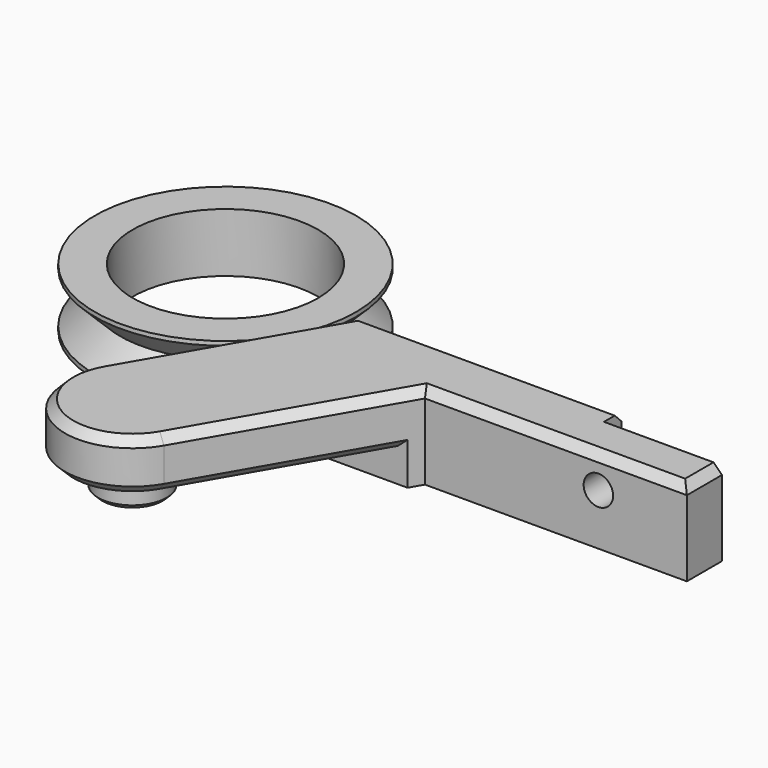
from build123d import *

# Parameters (mm, degrees)
PAD_DEPTH       = 10
SKETCH002_R     = 1.75
POCKET_DEPTH    = 34.301
POCKET001_DEPTH = 4
SKETCH003_R     = 5.55
PAD001_DEPTH    = 0.5
SKETCH005_R     = 4.075
PAD002_DEPTH    = 3.5
CHAMFER_SIZE    = 0.5
CHAMFER001_SIZE = 1
CHAMFER002_SIZE = 1


with BuildPart() as bracket_left:
    # Sketch001 → Pad (new body)
    with BuildSketch(Plane.XY):
        with BuildLine():
            Line((23.946708, 0), (11.071797, 22.3))
            ThreePointArc((24.928203, 30.3), (14, 33.228203), (11.071797, 22.3))
            Line((24.928203, 30.3), (37.918584, 7.8))
            Line((37.918584, 7.8), (69, 7.8))
            Line((69, 7.8), (69, 2.6))
            Line((69, 2.6), (55, 2.6))
            Line((55, 2.6), (55, 0))
            Line((23.946708, 0), (55, 0))
        make_face()
    extrude(amount=PAD_DEPTH)

    # Sketch002 → Pocket (cut, through all)
    with BuildSketch(Plane.XZ):
        with Locations((58.5, 6.1)):
            Circle(SKETCH002_R)
    extrude(amount=-POCKET_DEPTH, mode=Mode.SUBTRACT)

    # Sketch → Pocket001 (cut)
    with BuildSketch(Plane.XY):
        with BuildLine():
            ThreePointArc((33.868529, 30.821038), (13.478962, 42.168529), (2.131471, 21.778962))
            Line((5.686801, 9.3), (2.131471, 21.778962))
            Line((40, 9.3), (5.686801, 9.3))
            Line((33.868529, 30.821038), (40, 9.3))
        make_face()
    extrude(amount=POCKET001_DEPTH, mode=Mode.SUBTRACT)

    # Sketch003 (on Face4 of Pocket001) → Pad001 (join)
    with BuildSketch(Plane(origin=(0, 0, 4), x_dir=(1, 0, 0), z_dir=(0, 0, -1))):
        with Locations((18, -26.3)):
            Circle(SKETCH003_R)
    extrude(amount=PAD001_DEPTH)

    # Sketch005 (on Face4 of Pocket001) → Pad002 (join)
    with BuildSketch(Plane(origin=(0, 0, 4), x_dir=(1, 0, 0), z_dir=(0, 0, -1))):
        with Locations((18, -26.3)):
            Circle(SKETCH005_R)
    extrude(amount=PAD002_DEPTH)

    # Chamfer
    chamfer_edges = [bracket_left.edges().sort_by_distance(p)[0] for p in [
        (13.925, 26.3, 0.5),
    ]]
    chamfer(chamfer_edges, length=CHAMFER_SIZE)

    # Chamfer001
    chamfer001_edges = [bracket_left.edges().sort_by_distance(p)[0] for p in [
        (30.990381, 19.8, 4),
        (14.824574, 15.8, 4),
        (14, 33.228203, 4),
    ]]
    chamfer(chamfer001_edges, length=CHAMFER001_SIZE)

    # Chamfer002
    chamfer002_edges = [bracket_left.edges().sort_by_distance(p)[0] for p in [
        (53.459292, 7.8, 10),
        (31.423394, 19.05, 10),
        (14, 33.228203, 10),
        (17.509252, 11.15, 10),
        (39.473354, 0, 10),
        (69, 5.2, 10),
    ]]
    chamfer(chamfer002_edges, length=CHAMFER002_SIZE)


with BuildPart() as bracket_right:
    # Part__Mirroring: instance of Bracket Left
    add(bracket_left.part.mirror(Plane(origin=(0, 0, 0), x_dir=(1, 0, 0), z_dir=(0, 1, 0))))


with BuildPart() as bracket_right_1:
    # Part__Mirroring placement: moved
    add(bracket_right.part.moved(Location((0, -10, 0))))


with BuildPart() as grooved_pulley_with_bearing:
    # Sketch004 → Revolution (revolve)
    with BuildSketch(Plane.XZ):
        Polygon((11, 3.5), (15.5, 3.5), (15.5, 3), (12.5, 0), (15.5, -3), (15.5, -3.5), (11, -3.5), align=None)
    revolve(axis=Axis((0, 0, 0), (0, 0, 1)))


solid = Compound([bracket_right_1.part, grooved_pulley_with_bearing.part])
